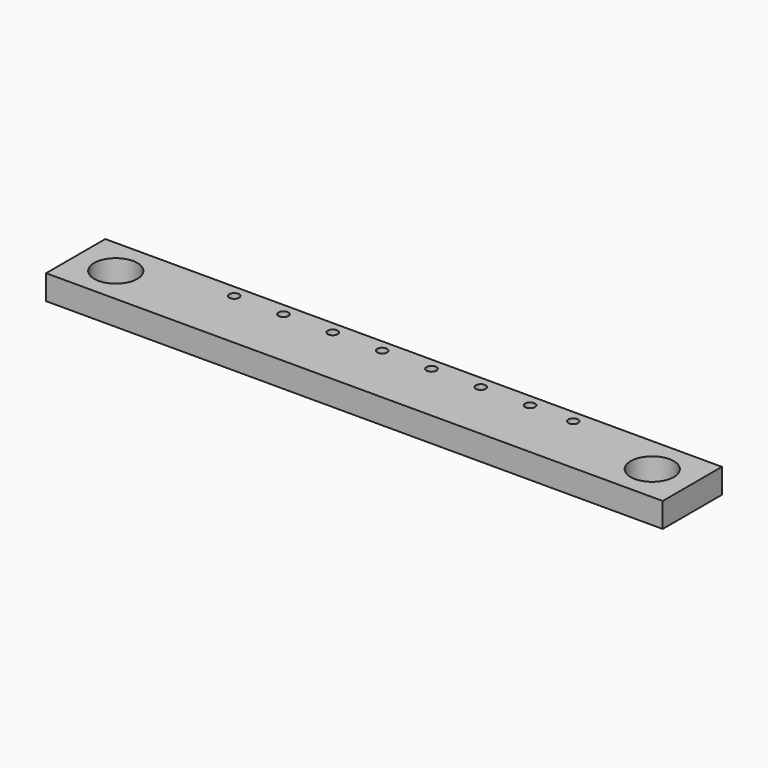
from build123d import *

# Parameters (mm, degrees)
F0_W     = 50
F0_H     = 6
F0_R     = 1.75
F1_DEPTH = 2
F2_R     = 0.4
F3_DEPTH = 2.001


with BuildPart() as f1:
    # F0 (on Top) → F1 (new body)
    with BuildSketch(Plane.XY):
        with Locations((25, 3)):
            Rectangle(F0_W, F0_H)
        with Locations((3.25, 3)):
            Circle(F0_R, mode=Mode.SUBTRACT)
        with Locations((46.75, 3)):
            Circle(F0_R, mode=Mode.SUBTRACT)
    extrude(amount=F1_DEPTH)

    # F2 (on face) → F3 (cut, through all)
    with BuildSketch(Plane.XY.offset(2)):
        with Locations((11.25, 5)):
            Circle(F2_R)
        with Locations((15.25, 5)):
            Circle(F2_R)
        with Locations((19.25, 5)):
            Circle(F2_R)
        with Locations((23.25, 5)):
            Circle(F2_R)
        with Locations((27.25, 5)):
            Circle(F2_R)
        with Locations((31.25, 5)):
            Circle(F2_R)
        with Locations((35.25, 5)):
            Circle(F2_R)
        with Locations((38.75, 5)):
            Circle(F2_R)
    extrude(amount=-F3_DEPTH, mode=Mode.SUBTRACT)


solid = f1.part
